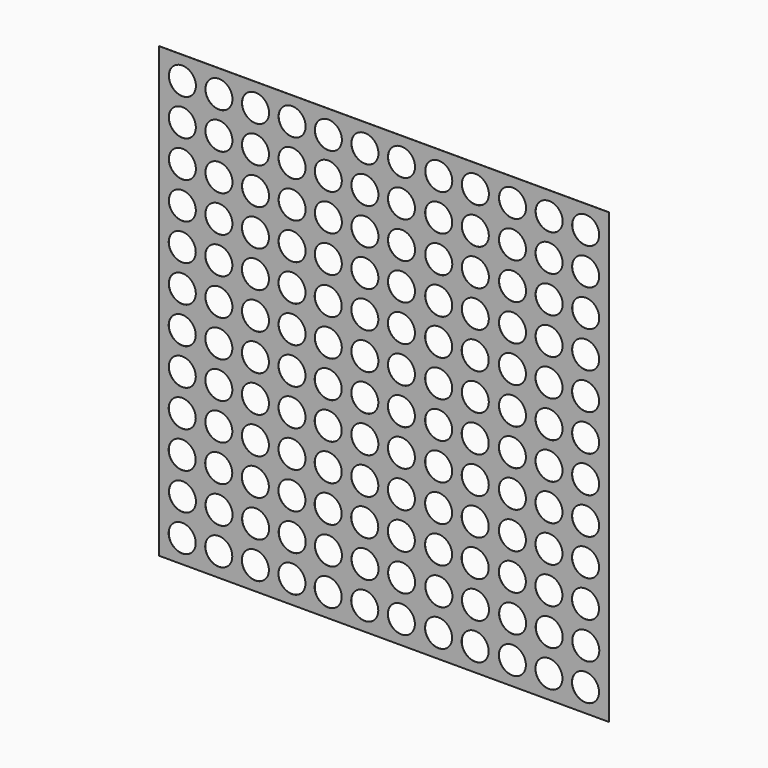
from build123d import *

# Parameters (mm, degrees)
F0_R     = 2.309146
F1_DEPTH = 0.0254


with BuildPart() as f1:
    # F0 (on Front) → F1 (new body)
    with BuildSketch(Plane.XZ):
        Polygon((0, 76.575901), (0, 0), (19.190793, 0), (57.57238, 0), (76.763173, 0), (76.763173, 76.575901), (57.57238, 76.575901), (19.190793, 76.575901), align=None)
        with Locations((3.942917, 3.942917)):
            Circle(F0_R, mode=Mode.SUBTRACT)
        with Locations((10.186714, 3.977169)):
            Circle(F0_R, mode=Mode.SUBTRACT)
        with Locations((16.430599, 3.938604)):
            Circle(F0_R, mode=Mode.SUBTRACT)
        with Locations((3.990316, 10.198643)):
            Circle(F0_R, mode=Mode.SUBTRACT)
        with Locations((3.941108, 16.454355)):
            Circle(F0_R, mode=Mode.SUBTRACT)
        with Locations((10.234114, 10.232895)):
            Circle(F0_R, mode=Mode.SUBTRACT)
        with Locations((16.477998, 10.19433)):
            Circle(F0_R, mode=Mode.SUBTRACT)
        with Locations((10.184906, 16.488607)):
            Circle(F0_R, mode=Mode.SUBTRACT)
        with Locations((16.42879, 16.450043)):
            Circle(F0_R, mode=Mode.SUBTRACT)
        with Locations((22.674489, 3.934746)):
            Circle(F0_R, mode=Mode.SUBTRACT)
        with Locations((28.860528, 3.934746)):
            Circle(F0_R, mode=Mode.SUBTRACT)
        with Locations((35.104412, 3.934746)):
            Circle(F0_R, mode=Mode.SUBTRACT)
        with Locations((22.721889, 10.190472)):
            Circle(F0_R, mode=Mode.SUBTRACT)
        with Locations((22.67268, 16.446184)):
            Circle(F0_R, mode=Mode.SUBTRACT)
        with Locations((28.907928, 10.190472)):
            Circle(F0_R, mode=Mode.SUBTRACT)
        with Locations((35.151812, 10.190472)):
            Circle(F0_R, mode=Mode.SUBTRACT)
        with Locations((28.858719, 16.446184)):
            Circle(F0_R, mode=Mode.SUBTRACT)
        with Locations((35.102604, 16.446184)):
            Circle(F0_R, mode=Mode.SUBTRACT)
        with Locations((3.953545, 22.698234)):
            Circle(F0_R, mode=Mode.SUBTRACT)
        with Locations((10.197343, 22.732487)):
            Circle(F0_R, mode=Mode.SUBTRACT)
        with Locations((16.437016, 22.693929)):
            Circle(F0_R, mode=Mode.SUBTRACT)
        with Locations((3.957561, 28.942125)):
            Circle(F0_R, mode=Mode.SUBTRACT)
        with Locations((3.954228, 35.186015)):
            Circle(F0_R, mode=Mode.SUBTRACT)
        with Locations((10.197685, 28.976378)):
            Circle(F0_R, mode=Mode.SUBTRACT)
        with Locations((16.445243, 28.937815)):
            Circle(F0_R, mode=Mode.SUBTRACT)
        with Locations((10.198026, 35.22027)):
            Circle(F0_R, mode=Mode.SUBTRACT)
        with Locations((16.44191, 35.181706)):
            Circle(F0_R, mode=Mode.SUBTRACT)
        with Locations((22.685118, 22.690064)):
            Circle(F0_R, mode=Mode.SUBTRACT)
        with Locations((28.871157, 22.690064)):
            Circle(F0_R, mode=Mode.SUBTRACT)
        with Locations((35.11083, 22.690071)):
            Circle(F0_R, mode=Mode.SUBTRACT)
        with Locations((22.689133, 28.933954)):
            Circle(F0_R, mode=Mode.SUBTRACT)
        with Locations((22.685801, 35.177845)):
            Circle(F0_R, mode=Mode.SUBTRACT)
        with Locations((28.871498, 28.933955)):
            Circle(F0_R, mode=Mode.SUBTRACT)
        with Locations((35.119056, 28.933957)):
            Circle(F0_R, mode=Mode.SUBTRACT)
        with Locations((28.87184, 35.177847)):
            Circle(F0_R, mode=Mode.SUBTRACT)
        with Locations((35.115724, 35.177847)):
            Circle(F0_R, mode=Mode.SUBTRACT)
        with Locations((41.348304, 3.934746)):
            Circle(F0_R, mode=Mode.SUBTRACT)
        with Locations((47.706028, 3.934746)):
            Circle(F0_R, mode=Mode.SUBTRACT)
        with Locations((53.949913, 3.934746)):
            Circle(F0_R, mode=Mode.SUBTRACT)
        with Locations((41.395704, 10.190472)):
            Circle(F0_R, mode=Mode.SUBTRACT)
        with Locations((47.753428, 10.190472)):
            Circle(F0_R, mode=Mode.SUBTRACT)
        with Locations((41.346495, 16.446184)):
            Circle(F0_R, mode=Mode.SUBTRACT)
        with Locations((47.70422, 16.446184)):
            Circle(F0_R, mode=Mode.SUBTRACT)
        with Locations((53.997312, 10.190472)):
            Circle(F0_R, mode=Mode.SUBTRACT)
        with Locations((53.948104, 16.446184)):
            Circle(F0_R, mode=Mode.SUBTRACT)
        with Locations((60.296017, 3.934746)):
            Circle(F0_R, mode=Mode.SUBTRACT)
        with Locations((66.539909, 3.934746)):
            Circle(F0_R, mode=Mode.SUBTRACT)
        with Locations((72.7838, 3.934746)):
            Circle(F0_R, mode=Mode.SUBTRACT)
        with Locations((60.343417, 10.190472)):
            Circle(F0_R, mode=Mode.SUBTRACT)
        with Locations((66.587308, 10.190472)):
            Circle(F0_R, mode=Mode.SUBTRACT)
        with Locations((60.294208, 16.446184)):
            Circle(F0_R, mode=Mode.SUBTRACT)
        with Locations((66.5381, 16.446184)):
            Circle(F0_R, mode=Mode.SUBTRACT)
        with Locations((72.8312, 10.190472)):
            Circle(F0_R, mode=Mode.SUBTRACT)
        with Locations((72.781992, 16.446184)):
            Circle(F0_R, mode=Mode.SUBTRACT)
        with Locations((41.354722, 22.690071)):
            Circle(F0_R, mode=Mode.SUBTRACT)
        with Locations((47.710609, 22.690073)):
            Circle(F0_R, mode=Mode.SUBTRACT)
        with Locations((53.956331, 22.690071)):
            Circle(F0_R, mode=Mode.SUBTRACT)
        with Locations((41.362948, 28.933957)):
            Circle(F0_R, mode=Mode.SUBTRACT)
        with Locations((47.716999, 28.933961)):
            Circle(F0_R, mode=Mode.SUBTRACT)
        with Locations((41.359616, 35.177847)):
            Circle(F0_R, mode=Mode.SUBTRACT)
        with Locations((47.71734, 35.177853)):
            Circle(F0_R, mode=Mode.SUBTRACT)
        with Locations((53.964557, 28.933957)):
            Circle(F0_R, mode=Mode.SUBTRACT)
        with Locations((53.961225, 35.177847)):
            Circle(F0_R, mode=Mode.SUBTRACT)
        with Locations((60.306646, 22.690064)):
            Circle(F0_R, mode=Mode.SUBTRACT)
        with Locations((66.550537, 22.690064)):
            Circle(F0_R, mode=Mode.SUBTRACT)
        with Locations((72.790218, 22.690071)):
            Circle(F0_R, mode=Mode.SUBTRACT)
        with Locations((60.306987, 28.933955)):
            Circle(F0_R, mode=Mode.SUBTRACT)
        with Locations((66.550879, 28.933955)):
            Circle(F0_R, mode=Mode.SUBTRACT)
        with Locations((60.307329, 35.177847)):
            Circle(F0_R, mode=Mode.SUBTRACT)
        with Locations((66.55122, 35.177847)):
            Circle(F0_R, mode=Mode.SUBTRACT)
        with Locations((72.798444, 28.933957)):
            Circle(F0_R, mode=Mode.SUBTRACT)
        with Locations((72.801585, 35.177847)):
            Circle(F0_R, mode=Mode.SUBTRACT)
        with Locations((3.963842, 41.4299)):
            Circle(F0_R, mode=Mode.SUBTRACT)
        with Locations((3.954337, 47.673784)):
            Circle(F0_R, mode=Mode.SUBTRACT)
        with Locations((10.20764, 41.464154)):
            Circle(F0_R, mode=Mode.SUBTRACT)
        with Locations((16.451524, 41.42559)):
            Circle(F0_R, mode=Mode.SUBTRACT)
        with Locations((10.198134, 47.708038)):
            Circle(F0_R, mode=Mode.SUBTRACT)
        with Locations((16.442019, 47.669474)):
            Circle(F0_R, mode=Mode.SUBTRACT)
        with Locations((3.967949, 53.917661)):
            Circle(F0_R, mode=Mode.SUBTRACT)
        with Locations((10.211747, 53.951913)):
            Circle(F0_R, mode=Mode.SUBTRACT)
        with Locations((16.452485, 53.913357)):
            Circle(F0_R, mode=Mode.SUBTRACT)
        with Locations((22.695415, 41.421729)):
            Circle(F0_R, mode=Mode.SUBTRACT)
        with Locations((22.685909, 47.665613)):
            Circle(F0_R, mode=Mode.SUBTRACT)
        with Locations((28.881454, 41.421731)):
            Circle(F0_R, mode=Mode.SUBTRACT)
        with Locations((35.125338, 41.421731)):
            Circle(F0_R, mode=Mode.SUBTRACT)
        with Locations((28.871948, 47.665615)):
            Circle(F0_R, mode=Mode.SUBTRACT)
        with Locations((35.115832, 47.665616)):
            Circle(F0_R, mode=Mode.SUBTRACT)
        with Locations((22.699522, 53.90949)):
            Circle(F0_R, mode=Mode.SUBTRACT)
        with Locations((28.885561, 53.991757)):
            Circle(F0_R, mode=Mode.SUBTRACT)
        with Locations((35.126299, 53.909499)):
            Circle(F0_R, mode=Mode.SUBTRACT)
        with Locations((3.97527, 60.161548)):
            Circle(F0_R, mode=Mode.SUBTRACT)
        with Locations((3.965194, 66.405431)):
            Circle(F0_R, mode=Mode.SUBTRACT)
        with Locations((10.219068, 60.195801)):
            Circle(F0_R, mode=Mode.SUBTRACT)
        with Locations((16.462952, 60.15724)):
            Circle(F0_R, mode=Mode.SUBTRACT)
        with Locations((10.208991, 66.439684)):
            Circle(F0_R, mode=Mode.SUBTRACT)
        with Locations((16.452876, 66.401123)):
            Circle(F0_R, mode=Mode.SUBTRACT)
        with Locations((3.975066, 72.649315)):
            Circle(F0_R, mode=Mode.SUBTRACT)
        with Locations((10.218863, 72.683568)):
            Circle(F0_R, mode=Mode.SUBTRACT)
        with Locations((16.462748, 72.645007)):
            Circle(F0_R, mode=Mode.SUBTRACT)
        with Locations((22.706843, 60.153377)):
            Circle(F0_R, mode=Mode.SUBTRACT)
        with Locations((22.696766, 66.39726)):
            Circle(F0_R, mode=Mode.SUBTRACT)
        with Locations((28.892882, 60.235644)):
            Circle(F0_R, mode=Mode.SUBTRACT)
        with Locations((35.136766, 60.153381)):
            Circle(F0_R, mode=Mode.SUBTRACT)
        with Locations((28.882805, 66.479528)):
            Circle(F0_R, mode=Mode.SUBTRACT)
        with Locations((35.126689, 66.397265)):
            Circle(F0_R, mode=Mode.SUBTRACT)
        with Locations((22.706638, 72.641144)):
            Circle(F0_R, mode=Mode.SUBTRACT)
        with Locations((28.892677, 72.63173)):
            Circle(F0_R, mode=Mode.SUBTRACT)
        with Locations((35.136561, 72.641148)):
            Circle(F0_R, mode=Mode.SUBTRACT)
        with Locations((41.369229, 41.421731)):
            Circle(F0_R, mode=Mode.SUBTRACT)
        with Locations((47.726954, 41.421737)):
            Circle(F0_R, mode=Mode.SUBTRACT)
        with Locations((41.359724, 47.665616)):
            Circle(F0_R, mode=Mode.SUBTRACT)
        with Locations((47.717448, 47.665621)):
            Circle(F0_R, mode=Mode.SUBTRACT)
        with Locations((53.970838, 41.421731)):
            Circle(F0_R, mode=Mode.SUBTRACT)
        with Locations((53.961333, 47.665616)):
            Circle(F0_R, mode=Mode.SUBTRACT)
        with Locations((41.373337, 53.909492)):
            Circle(F0_R, mode=Mode.SUBTRACT)
        with Locations((47.731061, 53.850757)):
            Circle(F0_R, mode=Mode.SUBTRACT)
        with Locations((53.9718, 53.909499)):
            Circle(F0_R, mode=Mode.SUBTRACT)
        with Locations((60.316943, 41.421731)):
            Circle(F0_R, mode=Mode.SUBTRACT)
        with Locations((66.560834, 41.421731)):
            Circle(F0_R, mode=Mode.SUBTRACT)
        with Locations((60.307437, 47.665615)):
            Circle(F0_R, mode=Mode.SUBTRACT)
        with Locations((66.551329, 47.665615)):
            Circle(F0_R, mode=Mode.SUBTRACT)
        with Locations((72.804726, 41.421738)):
            Circle(F0_R, mode=Mode.SUBTRACT)
        with Locations((72.79522, 47.665623)):
            Circle(F0_R, mode=Mode.SUBTRACT)
        with Locations((60.32105, 53.909492)):
            Circle(F0_R, mode=Mode.SUBTRACT)
        with Locations((66.564847, 53.923752)):
            Circle(F0_R, mode=Mode.SUBTRACT)
        with Locations((72.805687, 53.909505)):
            Circle(F0_R, mode=Mode.SUBTRACT)
        with Locations((41.380658, 60.15338)):
            Circle(F0_R, mode=Mode.SUBTRACT)
        with Locations((47.738382, 60.094645)):
            Circle(F0_R, mode=Mode.SUBTRACT)
        with Locations((41.370581, 66.397263)):
            Circle(F0_R, mode=Mode.SUBTRACT)
        with Locations((47.728305, 66.338528)):
            Circle(F0_R, mode=Mode.SUBTRACT)
        with Locations((53.982266, 60.153381)):
            Circle(F0_R, mode=Mode.SUBTRACT)
        with Locations((53.97219, 66.397265)):
            Circle(F0_R, mode=Mode.SUBTRACT)
        with Locations((41.380453, 72.641147)):
            Circle(F0_R, mode=Mode.SUBTRACT)
        with Locations((47.738177, 72.582412)):
            Circle(F0_R, mode=Mode.SUBTRACT)
        with Locations((53.982062, 72.641148)):
            Circle(F0_R, mode=Mode.SUBTRACT)
        with Locations((60.328371, 60.153379)):
            Circle(F0_R, mode=Mode.SUBTRACT)
        with Locations((66.572168, 60.16764)):
            Circle(F0_R, mode=Mode.SUBTRACT)
        with Locations((60.318294, 66.397262)):
            Circle(F0_R, mode=Mode.SUBTRACT)
        with Locations((66.562092, 66.411523)):
            Circle(F0_R, mode=Mode.SUBTRACT)
        with Locations((72.816154, 60.153388)):
            Circle(F0_R, mode=Mode.SUBTRACT)
        with Locations((72.806077, 66.397271)):
            Circle(F0_R, mode=Mode.SUBTRACT)
        with Locations((60.328166, 72.641146)):
            Circle(F0_R, mode=Mode.SUBTRACT)
        with Locations((66.571964, 72.655407)):
            Circle(F0_R, mode=Mode.SUBTRACT)
        with Locations((72.815949, 72.641155)):
            Circle(F0_R, mode=Mode.SUBTRACT)
    extrude(amount=F1_DEPTH)


solid = f1.part
